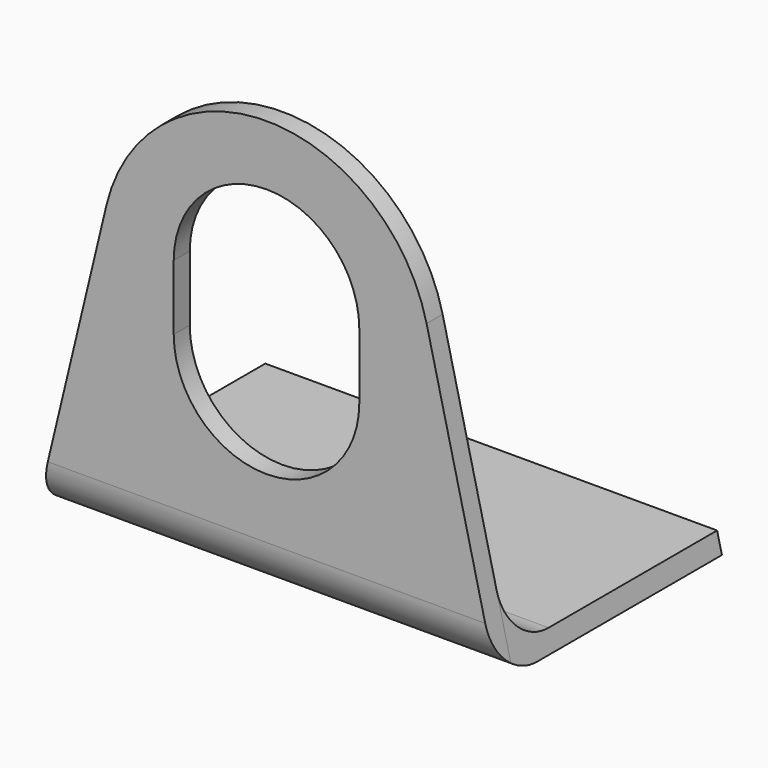
from build123d import *

# Parameters (mm, degrees)
F1_DEPTH = 2
F3_DEPTH = 26
F4_R     = 5


with BuildPart() as f1:
    # F0 (on Front) → F1 (new body)
    with BuildSketch(Plane.XZ):
        with BuildLine():
            Line((-15.958655, 29.411045), (-23, 0))
            Line((-23, 0), (23, 0))
            Line((23, 0), (15.958655, 29.411045))
            ThreePointArc((15.958655, 29.411045), (0, 42), (-15.958655, 29.411045))
        make_face()
        with BuildLine():
            Line((-9.25, 20.25), (-9.25, 26.75))
            ThreePointArc((-9.25, 26.75), (0, 36), (9.25, 26.75))
            Line((9.25, 26.75), (9.25, 20.25))
            ThreePointArc((9.25, 20.25), (0, 11), (-9.25, 20.25))
        make_face(mode=Mode.SUBTRACT)
    extrude(amount=F1_DEPTH)

    # F2 (on face) → F3 (join)
    with BuildSketch(Plane(origin=(0, 0, 0), x_dir=(-1, 0, 0), z_dir=(0, 1, 0))):
        Polygon((22.521177, 2), (-22.521177, 2), (-23, 0), (23, 0), align=None)
    extrude(amount=F3_DEPTH)

    # F4
    f4_edges = [f1.edges().sort_by_distance(p)[0] for p in [
        (0, -2, 0),
        (0, 0, 2),
    ]]
    fillet(f4_edges, radius=F4_R)


solid = f1.part
